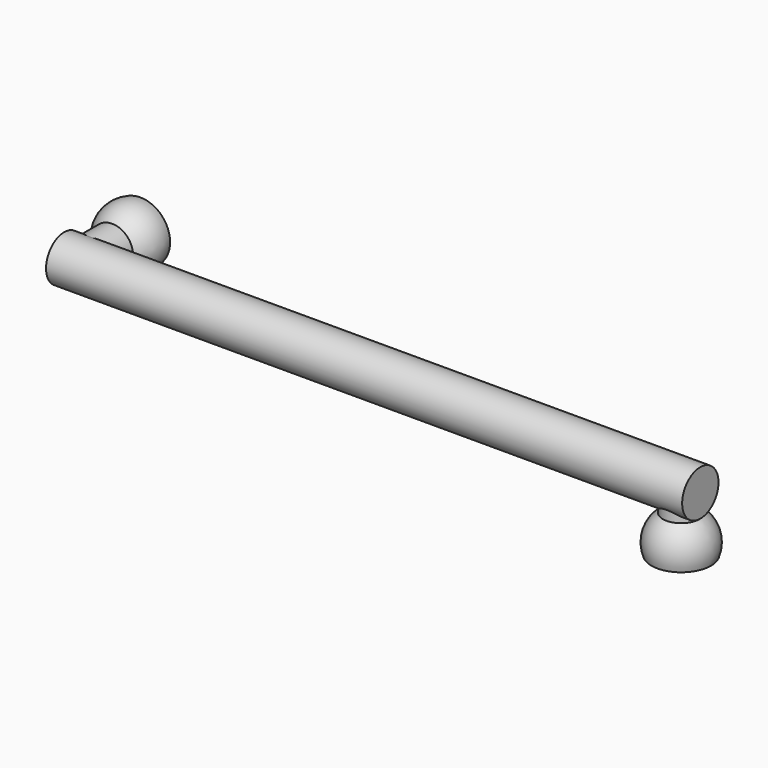
from build123d import *

# Parameters (mm, degrees)
F3_R     = 2.5
F4_DEPTH = 35


with BuildPart() as f1:
    # F0 (on Top) → F1 (revolve)
    with BuildSketch(Plane.XY):
        with BuildLine():
            Line((3, 10.3863353059), (3, 7.9742954113))
            Line((3, 7.9742954113), (5.297709696, 7.9742954113))
            Line((5.297709696, 7.9742954113), (5.297709696, 10.7682199602))
            Line((5.297709696, 10.7682199602), (5.297709696, 11.2461591464))
            ThreePointArc((5.297709696, 11.2461591464), (4.226658763, 10.6083316025), (3, 10.3863353059))
        make_face()
        with BuildLine():
            Line((3, 11.1363353059), (3, 10.3863353059))
            ThreePointArc((3, 10.3863353059), (4.226658763, 10.6083316025), (5.297709696, 11.2461591464))
            ThreePointArc((5.297709696, 11.2461591464), (6.3937863673, 13.0306402124), (6.2748163897, 15.1214780561))
            Line((6.2748163897, 15.1214780561), (5.4570149341, 15.1214780561))
            ThreePointArc((5.4570149341, 15.1214780561), (5.3408484106, 12.4430998024), (3, 11.1363353059))
        make_face()
    revolve(axis=Axis((3, 12.1363353059, 0), (0, -1, 0)))

    # F3 (on offset) → F4 (join, symmetric)
    with BuildSketch(Plane.YZ.offset(36)):
        with Locations((7.1499980986, 0)):
            Circle(F3_R)
    extrude(amount=F4_DEPTH, both=True)


with BuildPart() as f1_1:
    # F5: moved
    add(f1.part.moved(Location((0, -7.2, 0))))

    # F6 (on Front) → F7 (revolve)
    with BuildSketch(Plane.XZ):
        with BuildLine():
            ThreePointArc((68.8586309552, -2.7275545988), (71.1994793659, -4.0343190953), (71.3156458893, -6.712697349))
            Line((71.3156458893, -6.712697349), (72.133447345, -6.712697349))
            ThreePointArc((72.133447345, -6.712697349), (72.2031454778, -4.4459429431), (70.8686844446, -2.612299816))
            ThreePointArc((70.8686844446, -2.612299816), (69.9125778847, -2.1400112103), (68.8586309552, -1.9775545988))
            Line((68.8586309552, -1.9775545988), (68.8586309552, -2.7275545988))
        make_face()
        with BuildLine():
            Line((68.8586309552, 0.4344852958), (68.8586309552, -1.9775545988))
            ThreePointArc((68.8586309552, -1.9775545988), (69.9125778847, -2.1400112103), (70.8686844446, -2.612299816))
            Line((70.8686844446, -2.612299816), (70.8686844446, 0.4344852958))
            Line((70.8686844446, 0.4344852958), (68.8586309552, 0.4344852958))
        make_face()
    revolve(axis=Axis((68.8586309552, 0, -3.7275545988), (0, 0, 1)))


solid = f1_1.part
